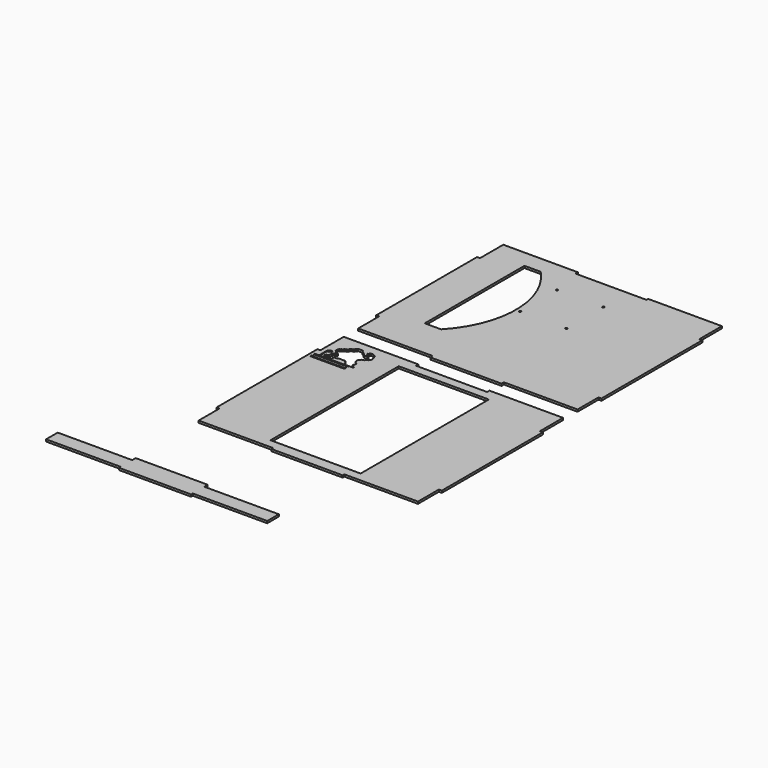
from build123d import *

# Parameters (mm, degrees)
F0_R     = 2.1
F0_W     = 194
F0_H     = 345
F1_DEPTH = 4.45


with BuildPart() as f1:
    # F0 (on Top) → F1 (new body)
    with BuildSketch(Plane.XY):
        Polygon((260.259588, 99.466212), (418.799137, 99.466212), (418.799137, 155.710447), (425.129137, 155.710447), (425.129137, 427.221977), (418.799137, 427.221977), (418.799137, 483.466212), (418.799137, 487.916212), (260.259588, 487.916212), (260.259588, 483.466212), (107.094468, 483.466212), (107.094468, 489.796212), (-53.322972, 489.796212), (-53.322972, 483.466212), (-53.322972, 427.221977), (-59.652972, 427.221977), (-59.652972, 155.710447), (-53.322972, 155.710447), (-53.322972, 99.466212), (107.094468, 99.466212), (107.094468, 93.136212), (260.259588, 93.136212), align=None)
        with BuildLine():
            ThreePointArc((57.387028, 452.125317), (111.266886, 318.008383), (57.387028, 183.89145))
            Line((57.387028, 183.89145), (22.387028, 183.89145))
            Line((22.387028, 183.89145), (22.387028, 452.125317))
            Line((22.387028, 452.125317), (57.387028, 452.125317))
        make_face(mode=Mode.SUBTRACT)
        with Locations((120.177028, 318.008383)):
            Circle(F0_R, mode=Mode.SUBTRACT)
        with BuildLine():
            ThreePointArc((222.099138, 318.008383), (219.999138, 315.908383), (217.899138, 318.008383))
            ThreePointArc((217.899138, 318.008383), (218.514213, 319.493308), (219.999138, 320.108383))
            ThreePointArc((219.999138, 320.108383), (221.484062, 319.493308), (222.099138, 318.008383))
        make_face(mode=Mode.SUBTRACT)
        with BuildLine():
            ThreePointArc((122.277028, 417.608383), (121.661952, 416.123459), (120.177028, 415.508383))
            ThreePointArc((120.177028, 415.508383), (118.692104, 419.093308), (122.277028, 417.608383))
        make_face(mode=Mode.SUBTRACT)
        with BuildLine():
            ThreePointArc((217.899138, 417.608383), (219.999138, 419.708383), (222.099138, 417.608383))
            ThreePointArc((222.099138, 417.608383), (221.484062, 416.123459), (219.999138, 415.508383))
            ThreePointArc((219.999138, 415.508383), (218.514213, 416.123459), (217.899138, 417.608383))
        make_face(mode=Mode.SUBTRACT)
        Polygon((260.259588, -329.814955), (418.799137, -329.814955), (418.799137, -273.57072), (425.129137, -273.57072), (425.129137, -2.05919), (418.799137, -2.05919), (418.799137, 54.185045), (418.799137, 60.515045), (260.259588, 60.515045), (260.259588, 54.185045), (107.094468, 54.185045), (107.094468, 60.515045), (-53.322972, 60.515045), (-53.322972, 54.185045), (-53.322972, -2.05919), (-59.652972, -2.05919), (-59.652972, -273.57072), (-53.322972, -273.57072), (-53.322972, -329.814955), (107.094468, -329.814955), (107.094468, -334.264955), (260.259588, -334.264955), align=None)
        with Locations((182.738083, -137.814955)):
            Rectangle(F0_W, F0_H, mode=Mode.SUBTRACT)
        Polygon((-53.322972, -20.696656), (-50.585722, -20.696656), (-43.527682, -20.696656), (-39.254998, -20.696656), (-32.196973, -20.696656), (-32.196973, -20.669618), (-27.897243, -20.669618), (-27.897243, -20.696656), (1.150231, -20.696656), (1.150231, -20.685428), (5.422915, -20.685428), (5.422915, -20.696656), (12.577782, -20.696656), (16.852851, -20.696656), (16.852851, -22.211173), (18.353681, -22.211173), (18.353681, -23.734734), (19.695322, -23.734734), (19.695322, -25.1446), (20.486588, -25.1446), (20.486588, -28.187373), (20.487398, -29.772744), (-53.322972, -29.772744), (-53.322972, -28.187373), (-53.322972, -26.727089), (-49.179514, -26.727089), (-49.179514, -25.212721), (-50.585722, -25.212721), (-50.585722, -23.698353), (-52.01896, -23.698353), (-52.01896, -22.183985), (-53.322972, -22.183985), align=None, mode=Mode.SUBTRACT)
        Polygon((20.468289, -17.868431), (20.46896, -19.182087), (-53.322972, -19.182087), (-53.322972, -17.868431), (-43.764492, -17.868431), (-43.764492, -8.582354), (-43.764492, -5.655886), (-43.764492, 3.348961), (-43.764492, 4.939615), (-42.349492, 4.939615), (-42.349492, 6.290286), (-40.934508, 6.290286), (-40.934508, 6.432115), (-40.934508, 7.857858), (-36.633198, 7.857858), (-35.206755, 7.857858), (-35.206755, 6.432115), (-35.206755, 4.83182), (-36.585231, 4.83182), (-36.585231, 3.588944), (-38.019349, 3.588944), (-38.019349, 3.348961), (-38.019349, 1.916676), (-39.480527, 1.916676), (-40.934508, 1.916676), (-42.220865, 1.916676), (-42.220865, -5.655886), (-42.220865, -8.582354), (-42.220865, -14.87025), (-40.934508, -14.87025), (-40.934508, -16.210512), (-40.934508, -16.349562), (-39.583837, -16.349562), (-39.583837, -17.868431), align=None, mode=Mode.SUBTRACT)
        Polygon((-27.878155, -13.645292), (-37.206073, -13.645292), (-37.276884, -10.047198), (-35.674264, -10.047198), (-35.674264, -8.122117), (-32.545184, -8.122117), (-32.545184, -6.287456), (-30.874704, -6.287456), (-30.874704, -2.577827), (-30.874704, 1.131802), (-29.306714, 1.131802), (-29.306714, 3.005727), (-26.247238, 3.005727), (-26.247238, 4.726692), (-26.247238, 4.760413), (-22.767072, 4.760413), (-22.767072, 6.447657), (-27.662252, 6.447657), (-27.662252, 8.436321), (-29.344966, 8.436321), (-29.344966, 10.157271), (-30.784388, 10.157271), (-30.784388, 12.070521), (-32.545184, 12.070521), (-32.545184, 19.45424), (-30.938868, 19.45424), (-30.938868, 21.333679), (-29.343386, 21.333679), (-29.343386, 23.226633), (-26.190032, 23.226633), (-26.190032, 24.97962), (-24.54709, 24.97962), (-24.54709, 26.832908), (-21.307548, 26.832908), (-21.307548, 28.763219), (-19.752619, 28.763219), (-18.19769, 28.763219), (-18.19769, 32.353639), (-16.683315, 32.353639), (-16.683315, 34.252807), (-13.586124, 34.252807), (-11.842747, 34.252807), (-11.842747, 36.172806), (-10.139083, 36.172806), (-10.139083, 37.852942), (-8.651768, 37.852942), (-8.651768, 39.769425), (-7.00218, 39.769425), (-7.00218, 41.446044), (4.031072, 41.446044), (4.031072, 39.823516), (5.59553, 39.823516), (5.59553, 39.769425), (5.59553, 37.852942), (7.066796, 37.852942), (7.066796, 35.995766), (8.731018, 35.995766), (8.731018, 34.252807), (8.731018, 34.154668), (11.857445, 34.154668), (11.857445, 32.353639), (13.623933, 32.353639), (13.623933, 30.524253), (14.991145, 30.524253), (14.991145, 28.645962), (24.362023, 28.645962), (24.362023, 30.46058), (19.633065, 30.46058), (19.633065, 32.353639), (18.079529, 32.353639), (18.079529, 34.223839), (18.079529, 35.979747), (16.578476, 35.979747), (16.578476, 37.95886), (18.228794, 37.95886), (18.228794, 39.704128), (19.662033, 39.704128), (19.662033, 41.482716), (26.032816, 41.482716), (26.032816, 39.705931), (29.249708, 39.705931), (29.249708, 37.872865), (32.443519, 37.872865), (32.443519, 34.249946), (33.844407, 34.249946), (33.844407, 28.618573), (35.548831, 28.618573), (35.548831, 23.008763), (33.844407, 23.008763), (33.844407, 21.175726), (32.324905, 21.175726), (32.324905, 19.201963), (29.249708, 19.201963), (29.249708, 17.56589), (27.727182, 17.56589), (27.727182, 15.715926), (24.77483, 15.715926), (24.77483, 13.883754), (21.475668, 13.883754), (21.475668, 11.882617), (19.744973, 11.882617), (19.744973, 10.043739), (18.230597, 10.043739), (18.230597, 4.787206), (18.230597, 3.066837), (19.744973, 3.066837), (19.744973, 1.077591), (19.759486, 1.077591), (21.259333, 1.077591), (21.259333, -0.719086), (22.827784, -0.719086), (22.827784, -2.557964), (24.666662, -2.557964), (24.666662, -8.236841), (22.990043, -8.236841), (22.990043, -11.806414), (24.578164, -11.806414), (26.126946, -11.806414), (26.126946, -13.537125), (27.749489, -13.537125), (27.749489, -15.538254), (29.263849, -15.538254), (29.263849, -17.32304), (27.749489, -17.32304), (26.126946, -17.32304), (10.226081, -17.32304), (10.226081, -15.484163), (8.603553, -15.484163), (8.603553, -11.914582), (7.035102, -11.914582), (7.035102, -10.129795), (5.412559, -10.129795), (5.412559, -8.122117), (3.844107, -8.122117), (3.844107, -6.343872), (2.353425, -6.343872), (0.707398, -6.343872), (-0.803222, -6.343872), (-2.371212, -6.343872), (-3.971112, -6.343872), (-5.554934, -6.343872), (-7.037615, -6.343872), (-10.264193, -6.343872), (-11.786331, -6.343872), (-11.786331, -8.18275), (-18.114229, -8.18275), (-18.114229, -10.021628), (-19.844924, -10.021628), (-19.844924, -11.834637), (-19.844924, -13.645292), (-26.195412, -13.645292), align=None, mode=Mode.SUBTRACT)
        Polygon((104.627742, -502.774691), (-50.537379, -502.774691), (-50.537379, -512.027383), (-210.954819, -512.027383), (-210.954819, -543.274691), (-50.537379, -543.274691), (-50.537379, -547.724691), (104.627742, -547.724691), (104.627742, -543.274691), (265.045181, -543.274691), (265.045181, -512.027383), (104.627742, -512.027383), align=None)
    extrude(amount=F1_DEPTH)


solid = f1.part
